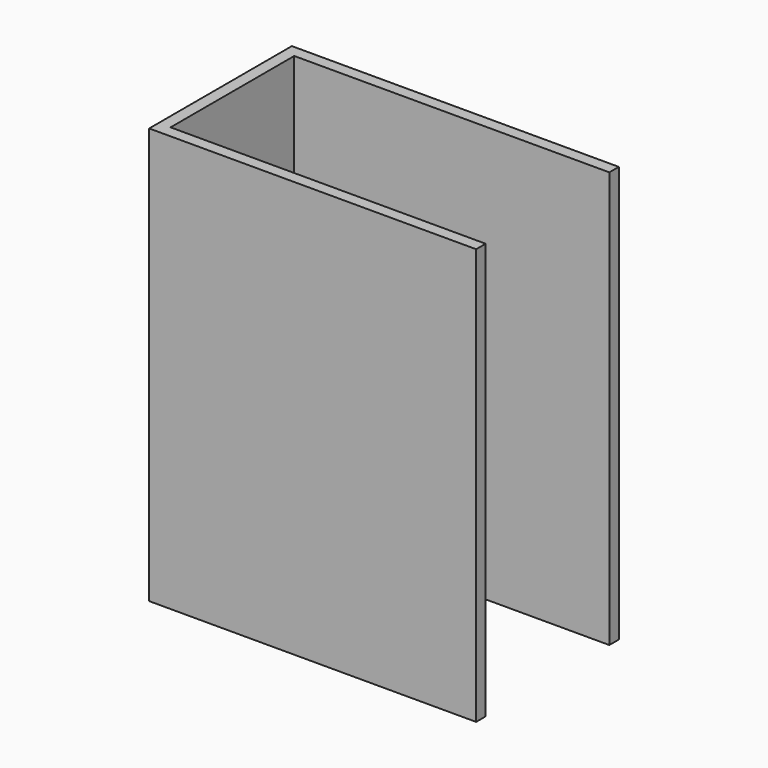
from build123d import *

# Parameters (mm, degrees)
F0_W     = 69.85
F0_H     = 88.9
F1_DEPTH = 38.1
F2_T     = -2.54


with BuildPart() as f1:
    # F0 (on Front) → F1 (new body)
    with BuildSketch(Plane.XZ):
        Rectangle(F0_W, F0_H)
    extrude(amount=-F1_DEPTH)

    # F2
    f2_openings = [f1.faces().sort_by_distance(p)[0] for p in [
        (0, 19.05, 44.45),
        (34.925, 19.05, 0),
        (0, 19.05, -44.45),
    ]]
    offset(amount=F2_T, openings=f2_openings)


solid = f1.part
